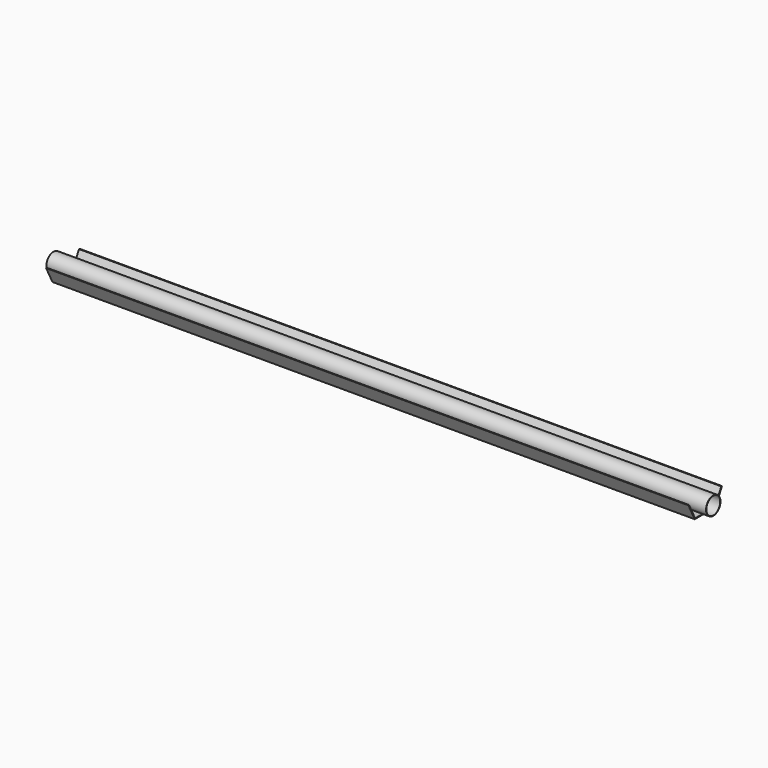
from build123d import *

# Parameters (mm, degrees)
F1_DEPTH = 925
F2_R     = 26
F2_R_2   = 25
F3_DEPTH = 950


with BuildPart() as f1:
    # F0 (on Right) → F1 (new body, symmetric)
    with BuildSketch(Plane.YZ):
        Polygon((-58.252042, 16.136102), (-35.441691, -28.357581), (39.558309, -28.357581), (62.36866, 16.136102), (60.12115, 16.136102), (38.336129, -26.357581), (-34.219511, -26.357581), (-56.004532, 16.136102), align=None)
    extrude(amount=F1_DEPTH, both=True)


with BuildPart() as f3:
    # F2 (on Right) → F3 (new body, symmetric)
    with BuildSketch(Plane.YZ):
        Circle(F2_R)
        Circle(F2_R_2, mode=Mode.SUBTRACT)
    extrude(amount=F3_DEPTH, both=True)


solid = Compound([f1.part, f3.part])
